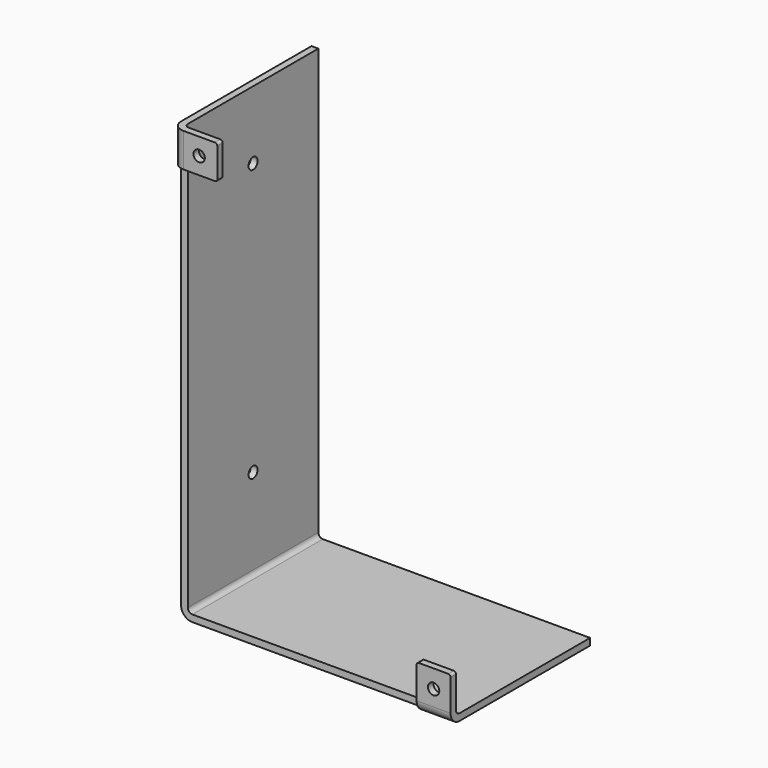
from build123d import *

# Parameters (mm, degrees)
F1_DEPTH = 72
F3_DEPTH = 15
F5_DEPTH = 15
F6_R     = 1
F9_D     = 5
F11_D    = 5


with BuildPart() as f1:
    # F0 (on Front) → F1 (new body)
    with BuildSketch(Plane.XZ):
        with BuildLine():
            Line((0, 2), (0, 190))
            Line((0, 190), (-3, 190))
            Line((-3, 190), (-3, 2))
            ThreePointArc((-3, 2), (-1.535534, -1.535534), (2, -3))
            Line((2, -3), (120, -3))
            Line((120, -3), (120, 0))
            Line((120, 0), (2, 0))
            ThreePointArc((2, 0), (0.585786, 0.585786), (0, 2))
        make_face()
    extrude(amount=F1_DEPTH)

    # F2 (on face) → F3 (join)
    with BuildSketch(Plane.XY.offset(190)):
        with BuildLine():
            ThreePointArc((2, -74), (0.585786, -73.414214), (0, -72))
            Line((0, -72), (-3, -72))
            ThreePointArc((-3, -72), (-1.535534, -75.535534), (2, -77))
            Line((2, -77), (17, -77))
            Line((17, -77), (17, -74))
            Line((17, -74), (2, -74))
        make_face()
    extrude(amount=-F3_DEPTH)

    # F4 (on face) → F5 (join)
    with BuildSketch(Plane.YZ.offset(120)):
        with BuildLine():
            ThreePointArc((-72, 0), (-73.414214, 0.585786), (-74, 2))
            Line((-74, 2), (-74, 17))
            Line((-74, 17), (-77, 17))
            Line((-77, 17), (-77, 2))
            ThreePointArc((-77, 2), (-75.535534, -1.535534), (-72, -3))
            Line((-72, -3), (-72, 0))
        make_face()
    extrude(amount=-F5_DEPTH)

    # F6
    f6_edges = [f1.edges().sort_by_distance(p)[0] for p in [
        (120, -75.5, 17),
        (105, -75.5, 17),
        (17, -75.5, 190),
        (17, -75.5, 175),
    ]]
    fillet(f6_edges, radius=F6_R)

    # F9 (through all)
    with Locations(Plane.XZ.offset(77)):
        with Locations((9, 182.5), (112.5, 9)):
            Hole(F9_D / 2)

    # F11 (through all)
    with Locations(Plane(origin=(-3, 0, 0), x_dir=(0, -1, 0), z_dir=(-1, 0, 0))):
        with Locations((36, 160), (36, 40)):
            Hole(F11_D / 2)


solid = f1.part
